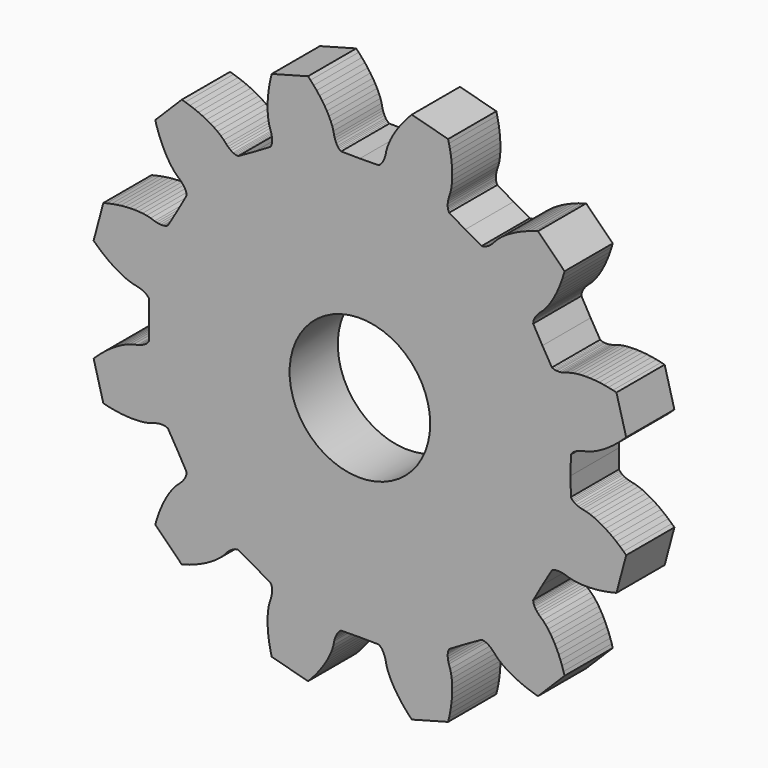
from build123d import *

# Parameters (mm, degrees)
F1_DEPTH = 3
F2_R     = 3.5
F3_DEPTH = 3.001


with BuildPart() as f1:
    # F0 (on Front) → F1 (new body)
    with BuildSketch(Plane.XZ):
        Polygon((-10.501529, 0.933249), (-10.492629, 4.9e-05), (-10.501529, -0.933051), (-10.546029, -0.998351), (-10.591729, -1.046951), (-10.638329, -1.086551), (-10.685329, -1.120051), (-10.780529, -1.174551), (-10.876929, -1.217251), (-10.974229, -1.251251), (-11.072329, -1.278251), (-11.269929, -1.318351), (-11.465429, -1.376351), (-11.658629, -1.452251), (-11.849829, -1.541951), (-12.039029, -1.643451), (-12.226229, -1.755851), (-12.411329, -1.878251), (-12.594229, -2.010151), (-12.774729, -2.151251), (-12.952829, -2.301051), (-13.128229, -2.459251), (-13.257929, -2.583351), (-12.773429, -4.391551), (-12.599029, -4.434151), (-12.368029, -4.483551), (-12.138929, -4.524251), (-11.912029, -4.556051), (-11.687729, -4.578951), (-11.466229, -4.592351), (-11.247929, -4.596051), (-11.033229, -4.589451), (-10.822829, -4.571451), (-10.617629, -4.540651), (-10.419329, -4.493051), (-10.228029, -4.428951), (-10.129629, -4.403351), (-10.028429, -4.384151), (-9.923529, -4.372851), (-9.813829, -4.372551), (-9.756329, -4.378051), (-9.696229, -4.389051), (-9.632329, -4.408251), (-9.561129, -4.442551), (-9.086929, -5.246251), (-8.628029, -6.058851), (-8.633829, -6.137651), (-8.649229, -6.202551), (-8.669729, -6.260051), (-8.693729, -6.312651), (-8.748929, -6.407551), (-8.811029, -6.492651), (-8.878329, -6.570751), (-8.949729, -6.643151), (-9.100829, -6.776751), (-9.241129, -6.924651), (-9.370529, -7.087051), (-9.491229, -7.260251), (-9.604329, -7.442851), (-9.710329, -7.633751), (-9.809329, -7.832251), (-9.901829, -8.037951), (-9.987629, -8.250351), (-10.066929, -8.469151), (-10.139729, -8.693851), (-10.190029, -8.866251), (-8.866329, -10.189951), (-8.693929, -10.139651), (-8.469229, -10.066851), (-8.250429, -9.987551), (-8.038029, -9.901751), (-7.832329, -9.809251), (-7.633829, -9.710251), (-7.442929, -9.604251), (-7.260329, -9.491151), (-7.087129, -9.370451), (-6.924729, -9.241051), (-6.776829, -9.100751), (-6.643229, -8.949651), (-6.570829, -8.878251), (-6.492729, -8.810951), (-6.407629, -8.748851), (-6.312729, -8.693651), (-6.260129, -8.669651), (-6.202629, -8.649151), (-6.137729, -8.633751), (-6.058929, -8.627951), (-5.246329, -9.086851), (-4.442629, -9.561051), (-4.408329, -9.632251), (-4.389129, -9.696151), (-4.378129, -9.756251), (-4.372629, -9.813751), (-4.372929, -9.923451), (-4.384229, -10.028351), (-4.403429, -10.129551), (-4.429029, -10.227951), (-4.493129, -10.419251), (-4.540729, -10.617551), (-4.571529, -10.822751), (-4.589529, -11.033151), (-4.596129, -11.247851), (-4.592429, -11.466151), (-4.579029, -11.687651), (-4.556129, -11.911951), (-4.524329, -12.138851), (-4.483629, -12.367951), (-4.434229, -12.598951), (-4.391629, -12.773351), (-2.583429, -13.257851), (-2.459329, -13.128151), (-2.301129, -12.952751), (-2.151329, -12.774651), (-2.010229, -12.594151), (-1.878329, -12.411251), (-1.755929, -12.226151), (-1.643529, -12.038951), (-1.542029, -11.849751), (-1.452329, -11.658551), (-1.376429, -11.465351), (-1.318429, -11.269851), (-1.278329, -11.072251), (-1.251329, -10.974151), (-1.217329, -10.876851), (-1.174629, -10.780451), (-1.120129, -10.685251), (-1.086629, -10.638251), (-1.047029, -10.591651), (-0.998429, -10.545951), (-0.933129, -10.501451), (-2.9e-05, -10.492551), (0.933171, -10.501451), (0.998471, -10.545951), (1.047071, -10.591651), (1.086671, -10.638251), (1.120171, -10.685251), (1.174671, -10.780451), (1.217371, -10.876851), (1.251371, -10.974151), (1.278371, -11.072251), (1.318471, -11.269851), (1.376471, -11.465351), (1.452371, -11.658551), (1.541971, -11.849751), (1.643571, -12.038951), (1.755971, -12.226151), (1.878371, -12.411251), (2.010271, -12.594151), (2.151271, -12.774651), (2.301071, -12.952751), (2.459371, -13.128151), (2.583471, -13.257851), (4.391671, -12.773351), (4.434271, -12.598951), (4.483571, -12.367951), (4.524271, -12.138851), (4.556171, -11.911951), (4.578971, -11.687651), (4.592471, -11.466151), (4.596171, -11.247851), (4.589571, -11.033151), (4.571571, -10.822751), (4.540671, -10.617551), (4.493171, -10.419251), (4.429071, -10.227951), (4.403471, -10.129551), (4.384171, -10.028351), (4.372971, -9.923451), (4.372571, -9.813751), (4.378071, -9.756251), (4.389071, -9.696151), (4.408271, -9.632251), (4.442671, -9.561051), (5.246371, -9.086851), (6.058871, -8.627951), (6.137671, -8.633751), (6.202671, -8.649151), (6.260171, -8.669651), (6.312771, -8.693651), (6.407571, -8.748851), (6.492771, -8.810951), (6.570771, -8.878251), (6.643271, -8.949651), (6.776771, -9.100751), (6.924771, -9.241051), (7.087071, -9.370451), (7.260371, -9.491151), (7.442871, -9.604251), (7.633771, -9.710251), (7.832371, -9.809251), (8.038071, -9.901751), (8.250471, -9.987551), (8.469171, -10.066851), (8.693971, -10.139651), (8.866371, -10.189951), (10.189971, -8.866251), (10.139671, -8.693851), (10.066971, -8.469151), (9.987671, -8.250351), (9.901771, -8.037951), (9.809371, -7.832251), (9.710271, -7.633751), (9.604371, -7.442851), (9.491271, -7.260251), (9.370571, -7.087051), (9.241171, -6.924651), (9.100871, -6.776751), (8.949771, -6.643151), (8.878271, -6.570751), (8.811071, -6.492651), (8.748871, -6.407551), (8.693671, -6.312651), (8.669771, -6.260051), (8.649171, -6.202551), (8.633871, -6.137651), (8.627971, -6.058851), (9.086871, -5.246251), (9.561171, -4.442551), (9.632371, -4.408251), (9.696271, -4.389051), (9.756371, -4.378051), (9.813871, -4.372551), (9.923571, -4.372851), (10.028371, -4.384151), (10.129671, -4.403351), (10.228071, -4.428951), (10.419271, -4.493051), (10.617671, -4.540651), (10.822871, -4.571451), (11.033271, -4.589451), (11.247871, -4.596051), (11.466271, -4.592351), (11.687771, -4.578951), (11.912071, -4.556051), (12.138971, -4.524251), (12.367971, -4.483551), (12.599071, -4.434151), (12.773471, -4.391551), (13.257971, -2.583351), (13.128271, -2.459251), (12.952871, -2.301051), (12.774771, -2.151251), (12.594271, -2.010151), (12.411371, -1.878251), (12.226271, -1.755851), (12.039071, -1.643451), (11.849871, -1.541951), (11.658671, -1.452251), (11.465471, -1.376351), (11.269971, -1.318351), (11.072271, -1.278251), (10.974271, -1.251251), (10.876971, -1.217251), (10.780571, -1.174551), (10.685371, -1.120051), (10.638271, -1.086551), (10.591771, -1.046951), (10.545971, -0.998351), (10.501571, -0.933051), (10.492671, 4.9e-05), (10.501571, 0.933249), (10.545971, 0.998549), (10.591771, 1.047149), (10.638271, 1.086749), (10.685371, 1.120249), (10.780571, 1.174749), (10.876971, 1.217449), (10.974271, 1.251449), (11.072271, 1.278449), (11.269971, 1.318549), (11.465471, 1.376549), (11.658671, 1.452449), (11.849871, 1.542049), (12.039071, 1.643649), (12.226271, 1.756049), (12.411371, 1.878449), (12.594271, 2.010349), (12.774771, 2.151349), (12.952871, 2.301149), (13.128271, 2.459449), (13.257971, 2.583549), (12.773471, 4.391749), (12.599071, 4.434349), (12.367971, 4.483649), (12.138971, 4.524349), (11.912071, 4.556249), (11.687771, 4.579049), (11.466271, 4.592549), (11.247871, 4.596249), (11.033271, 4.589649), (10.822871, 4.571649), (10.617671, 4.540749), (10.419271, 4.493249), (10.228071, 4.429149), (10.129671, 4.403549), (10.028371, 4.384249), (9.923571, 4.373049), (9.813871, 4.372649), (9.756371, 4.378149), (9.696271, 4.389149), (9.632371, 4.408349), (9.561171, 4.442749), (9.086871, 5.246449), (8.627971, 6.058949), (8.633871, 6.137749), (8.649171, 6.202749), (8.669771, 6.260249), (8.693671, 6.312849), (8.748871, 6.407649), (8.811071, 6.492849), (8.878271, 6.570849), (8.949771, 6.643349), (9.100871, 6.776849), (9.241171, 6.924849), (9.370571, 7.087149), (9.491271, 7.260449), (9.604371, 7.442949), (9.710271, 7.633849), (9.809371, 7.832449), (9.901771, 8.038149), (9.987671, 8.250549), (10.066971, 8.469249), (10.139671, 8.694049), (10.189971, 8.866449), (8.866371, 10.190049), (8.693971, 10.139749), (8.469171, 10.067049), (8.250471, 9.987749), (8.038071, 9.901849), (7.832371, 9.809449), (7.633771, 9.710349), (7.442871, 9.604449), (7.260371, 9.491349), (7.087071, 9.370649), (6.924771, 9.241249), (6.776771, 9.100949), (6.643271, 8.949849), (6.570771, 8.878349), (6.492771, 8.811149), (6.407571, 8.748949), (6.312771, 8.693749), (6.260171, 8.669849), (6.202671, 8.649249), (6.137671, 8.633949), (6.058871, 8.628049), (5.246371, 9.086949), (4.442671, 9.561249), (4.408271, 9.632449), (4.389071, 9.696349), (4.378071, 9.756449), (4.372571, 9.813949), (4.372971, 9.923649), (4.384171, 10.028449), (4.403471, 10.129749), (4.429071, 10.228149), (4.493171, 10.419349), (4.540671, 10.617749), (4.571571, 10.822949), (4.589571, 11.033349), (4.596171, 11.247949), (4.592471, 11.466349), (4.578971, 11.687849), (4.556171, 11.912149), (4.524271, 12.139049), (4.483571, 12.368049), (4.434271, 12.599149), (4.391671, 12.773549), (2.583471, 13.258049), (2.459371, 13.128349), (2.301071, 12.952949), (2.151271, 12.774849), (2.010271, 12.594349), (1.878371, 12.411449), (1.755971, 12.226349), (1.643571, 12.039149), (1.541971, 11.849949), (1.452371, 11.658749), (1.376471, 11.465549), (1.318471, 11.270049), (1.278371, 11.072349), (1.251371, 10.974349), (1.217371, 10.877049), (1.174671, 10.780649), (1.120171, 10.685449), (1.086671, 10.638349), (1.047071, 10.591849), (0.998471, 10.546049), (0.933171, 10.501649), (-2.9e-05, 10.492749), (-0.933129, 10.501649), (-0.998429, 10.546049), (-1.047029, 10.591849), (-1.086629, 10.638349), (-1.120129, 10.685449), (-1.174629, 10.780649), (-1.217329, 10.877049), (-1.251329, 10.974349), (-1.278329, 11.072349), (-1.318429, 11.270049), (-1.376429, 11.465549), (-1.452329, 11.658749), (-1.542029, 11.849949), (-1.643529, 12.039149), (-1.755929, 12.226349), (-1.878329, 12.411449), (-2.010229, 12.594349), (-2.151329, 12.774849), (-2.301129, 12.952949), (-2.459329, 13.128349), (-2.583429, 13.258049), (-4.391629, 12.773549), (-4.434229, 12.599149), (-4.483629, 12.368049), (-4.524329, 12.139049), (-4.556129, 11.912149), (-4.579029, 11.687849), (-4.592429, 11.466349), (-4.596129, 11.247949), (-4.589529, 11.033349), (-4.571529, 10.822949), (-4.540729, 10.617749), (-4.493129, 10.419349), (-4.429029, 10.228149), (-4.403429, 10.129749), (-4.384229, 10.028449), (-4.372929, 9.923649), (-4.372629, 9.813949), (-4.378129, 9.756449), (-4.389129, 9.696349), (-4.408329, 9.632449), (-4.442629, 9.561249), (-5.246329, 9.086949), (-6.058929, 8.628049), (-6.137729, 8.633949), (-6.202629, 8.649249), (-6.260129, 8.669849), (-6.312729, 8.693749), (-6.407629, 8.748949), (-6.492729, 8.811149), (-6.570829, 8.878349), (-6.643229, 8.949849), (-6.776829, 9.100949), (-6.924729, 9.241249), (-7.087129, 9.370649), (-7.260329, 9.491349), (-7.442929, 9.604449), (-7.633829, 9.710349), (-7.832329, 9.809449), (-8.038029, 9.901849), (-8.250429, 9.987749), (-8.469229, 10.067049), (-8.693929, 10.139749), (-8.866329, 10.190049), (-10.190029, 8.866449), (-10.139729, 8.694049), (-10.066929, 8.469249), (-9.987629, 8.250549), (-9.901829, 8.038149), (-9.809329, 7.832449), (-9.710329, 7.633849), (-9.604329, 7.442949), (-9.491229, 7.260449), (-9.370529, 7.087149), (-9.241129, 6.924849), (-9.100829, 6.776849), (-8.949729, 6.643349), (-8.878329, 6.570849), (-8.811029, 6.492849), (-8.748929, 6.407649), (-8.693729, 6.312849), (-8.669729, 6.260249), (-8.649229, 6.202749), (-8.633829, 6.137749), (-8.628029, 6.058949), (-9.086929, 5.246449), (-9.561129, 4.442749), (-9.632329, 4.408349), (-9.696229, 4.389149), (-9.756329, 4.378149), (-9.813829, 4.372649), (-9.923529, 4.373049), (-10.028429, 4.384249), (-10.129629, 4.403549), (-10.228029, 4.429149), (-10.419329, 4.493249), (-10.617629, 4.540749), (-10.822829, 4.571649), (-11.033229, 4.589649), (-11.247929, 4.596249), (-11.466229, 4.592549), (-11.687729, 4.579049), (-11.912029, 4.556249), (-12.138929, 4.524349), (-12.368029, 4.483649), (-12.599029, 4.434349), (-12.773429, 4.391749), (-13.257929, 2.583549), (-13.128229, 2.459449), (-12.952829, 2.301149), (-12.774729, 2.151349), (-12.594229, 2.010349), (-12.411329, 1.878449), (-12.226229, 1.756049), (-12.039029, 1.643649), (-11.849829, 1.542049), (-11.658629, 1.452449), (-11.465429, 1.376549), (-11.269929, 1.318549), (-11.072329, 1.278449), (-10.974229, 1.251449), (-10.876929, 1.217449), (-10.780529, 1.174749), (-10.685329, 1.120249), (-10.638329, 1.086749), (-10.591729, 1.047149), (-10.546029, 0.998549), align=None)
    extrude(amount=F1_DEPTH)

    # F2 (on face) → F3 (cut, through all)
    with BuildSketch(Plane.XZ.offset(3)):
        Circle(F2_R)
    extrude(amount=-F3_DEPTH, mode=Mode.SUBTRACT)


solid = f1.part
